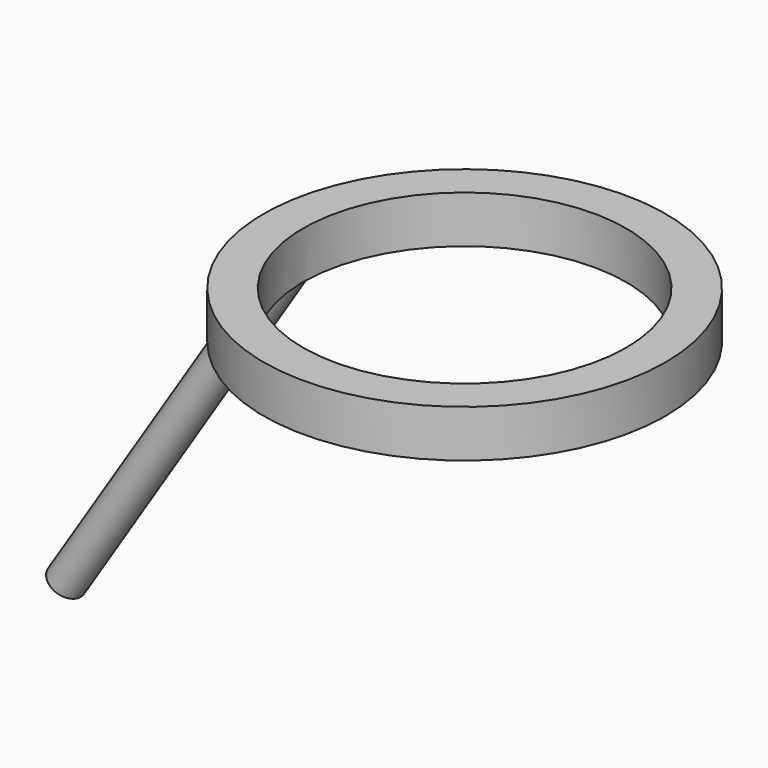
from build123d import *

# Parameters (mm, degrees)
F0_R     = 12.75
F0_R_2   = 10.25
F1_DEPTH = 3


with BuildPart() as f1:
    # F0 (on Top) → F1 (new body)
    with BuildSketch(Plane.XY):
        Circle(F0_R)
        Circle(F0_R_2, mode=Mode.SUBTRACT)
    extrude(amount=F1_DEPTH)

    # F2 (on Front) → F3 (revolve)
    with BuildSketch(Plane.XZ):
        Polygon((-10.2241979912, 0), (-11.5249808878, 0), (-25.64777527, -22.1678614616), (-24.3469923735, -22.1678614616), align=None)
    revolve(axis=Axis((-18.5863780789, 0, -11.0839307308), (0.5373079732, 0, 0.8433861168)))


solid = f1.part
